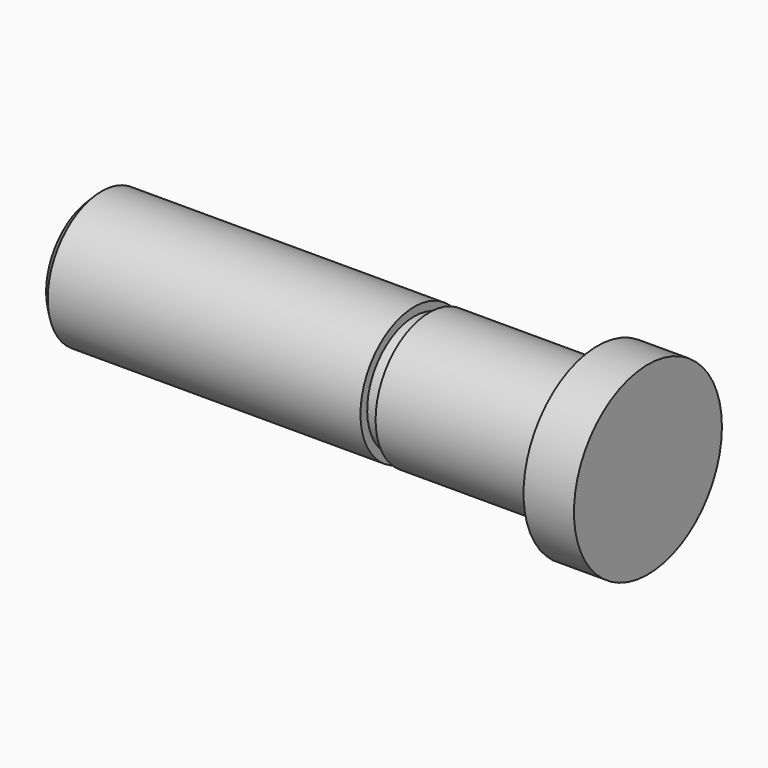
from build123d import *

# Parameters (mm, degrees)
F0_R     = 5.5
F1_DEPTH = 3
F2_R     = 4
F3_DEPTH = 30
F4_W     = 0.9
F4_H     = 0.5
F6_SIZE  = 0.5


with BuildPart() as f1:
    # F0 (on Right) → F1 (new body)
    with BuildSketch(Plane.YZ):
        Circle(F0_R)
    extrude(amount=-F1_DEPTH)

    # F2 (on face) → F3 (join)
    with BuildSketch(Plane(origin=(-3, 0, 0), x_dir=(0, -1, 0), z_dir=(-1, 0, 0))):
        Circle(F2_R)
    extrude(amount=F3_DEPTH)

    # F4 (on Front) → F5 (revolve, cut)
    with BuildSketch(Plane.XZ):
        with Locations((-13.45, 3.75)):
            Rectangle(F4_W, F4_H)
    revolve(axis=Axis((-16.22575, 0, 0), (1, 0, 0)), mode=Mode.SUBTRACT)

    # F6
    f6_edges = [f1.edges().sort_by_distance(p)[0] for p in [
        (-33, 4, 0),
    ]]
    chamfer(f6_edges, length=F6_SIZE)


solid = f1.part
